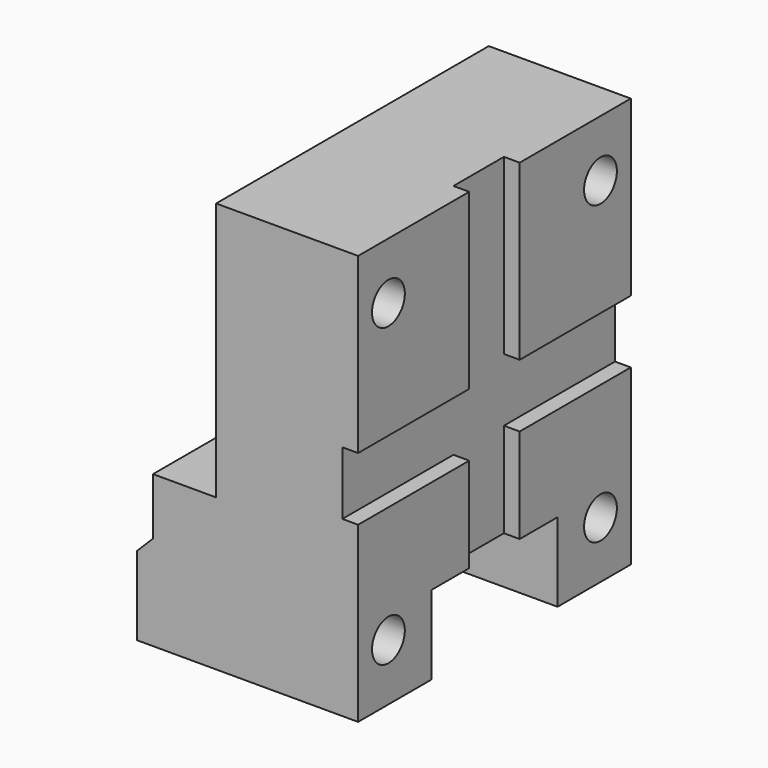
from build123d import *

# Parameters (mm, degrees)
F0_W      = 108
F0_H      = 130
F1_DEPTH  = 70
F2_R      = 6.5
F3_DEPTH  = 70.001
F4_W      = 70
F4_H      = 50
F5_DEPTH  = 25
F6_W      = 108
F6_H      = 82
F7_DEPTH  = 25
F9_DEPTH  = 108.001
F10_R     = 10
F11_DEPTH = 20
F12_R     = 10
F13_DEPTH = 20
F14_W     = 44
F14_H     = 20
F14_W_2   = 20
F14_H_2   = 55
F15_DEPTH = 5


with BuildPart() as f1:
    # F0 (on Right) → F1 (new body)
    with BuildSketch(Plane.YZ):
        Rectangle(F0_W, F0_H)
    extrude(amount=-F1_DEPTH)

    # F2 (on face) → F3 (cut, through all)
    with BuildSketch(Plane(origin=(-70, 0, 0), x_dir=(0, -1, 0), z_dir=(-1, 0, 0))):
        with Locations((-42, 47)):
            Circle(F2_R)
        with Locations((42, 47)):
            Circle(F2_R)
        with Locations((-42, -47)):
            Circle(F2_R)
        with Locations((42, -47)):
            Circle(F2_R)
    extrude(amount=-F3_DEPTH, mode=Mode.SUBTRACT)

    # F4 (on face) → F5 (cut)
    with BuildSketch(Plane(origin=(0, 0, -65), x_dir=(1, 0, 0), z_dir=(0, 0, -1))):
        with Locations((-35, 0)):
            Rectangle(F4_W, F4_H)
    extrude(amount=-F5_DEPTH, mode=Mode.SUBTRACT)

    # F6 (on face) → F7 (cut)
    with BuildSketch(Plane(origin=(-70, 0, 0), x_dir=(0, -1, 0), z_dir=(-1, 0, 0))):
        with Locations((0, 24)):
            Rectangle(F6_W, F6_H)
    extrude(amount=-F7_DEPTH, mode=Mode.SUBTRACT)

    # F8 (on face) → F9 (cut, through all)
    with BuildSketch(Plane.XZ.offset(54)):
        Polygon((-65, -35), (-65, -17), (-70, -17), (-70, -40), align=None)
    extrude(amount=-F9_DEPTH, mode=Mode.SUBTRACT)

    # F10 (on face) → F11 (cut)
    with BuildSketch(Plane(origin=(-70, 0, 0), x_dir=(0, -1, 0), z_dir=(-1, 0, 0))):
        with Locations((-42, -47)):
            Circle(F10_R)
        with Locations((42, -47)):
            Circle(F10_R)
    extrude(amount=-F11_DEPTH, mode=Mode.SUBTRACT)

    # F12 (on face) → F13 (cut)
    with BuildSketch(Plane(origin=(-45, 0, 0), x_dir=(0, -1, 0), z_dir=(-1, 0, 0))):
        with Locations((-42, 47)):
            Circle(F12_R)
        with Locations((42, 47)):
            Circle(F12_R)
    extrude(amount=-F13_DEPTH, mode=Mode.SUBTRACT)

    # F14 (on face) → F15 (cut)
    with BuildSketch(Plane.YZ):
        with Locations((32, 0)):
            Rectangle(F14_W, F14_H)
        Rectangle(F14_W_2, F14_H)
        with Locations((0, 37.5)):
            Rectangle(F14_W_2, F14_H_2)
        with Locations((-32, 0)):
            Rectangle(F14_W, F14_H)
        with Locations((0, -37.5)):
            Rectangle(F14_W_2, F14_H_2)
    extrude(amount=-F15_DEPTH, mode=Mode.SUBTRACT)


solid = f1.part
